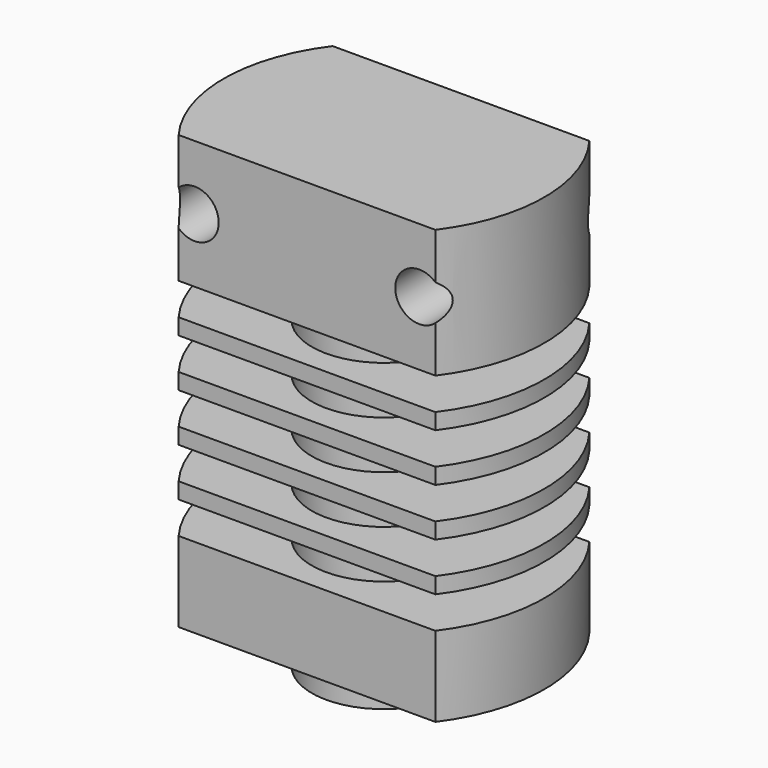
from build123d import *

# Parameters (mm, degrees)
F1_DEPTH      = 27
F2_W          = 30
F2_H          = 2
F3_DEPTH      = 6
F4_R          = 4.5
F5_DEPTH      = 27
F5_DEPTH_BACK = 2
F6_R          = 1.5
F7_DEPTH      = 6


with BuildPart() as f1:
    # F0 (on Top) → F1 (new body)
    with BuildSketch(Plane.XY):
        with BuildLine():
            Line((-8, -6), (8, -6))
            ThreePointArc((8, -6), (10, 0), (8, 6))
            Line((8, 6), (-8, 6))
            ThreePointArc((-8, 6), (-10, 0), (-8, -6))
        make_face()
    extrude(amount=F1_DEPTH)

    # F2 (on Front) → F3 (cut, symmetric)
    with BuildSketch(Plane.XZ):
        with Locations((0, 6)):
            Rectangle(F2_W, F2_H)
        with Locations((0, 9)):
            Rectangle(F2_W, F2_H)
        with Locations((0, 12)):
            Rectangle(F2_W, F2_H)
        with Locations((0, 15)):
            Rectangle(F2_W, F2_H)
        with Locations((0, 18)):
            Rectangle(F2_W, F2_H)
    extrude(amount=F3_DEPTH, both=True, mode=Mode.SUBTRACT)

    # F4 (on Top) → F5 (join, two sides)
    with BuildSketch(Plane.XY) as f5_sk:
        Circle(F4_R)
    extrude(amount=F5_DEPTH)
    extrude(f5_sk.sketch, amount=-F5_DEPTH_BACK)

    # F6 (on Front) → F7 (cut, symmetric)
    with BuildSketch(Plane.XZ):
        with Locations((-7, 23)):
            Circle(F6_R)
        with Locations((7, 23)):
            Circle(F6_R)
    extrude(amount=F7_DEPTH, both=True, mode=Mode.SUBTRACT)


solid = f1.part
